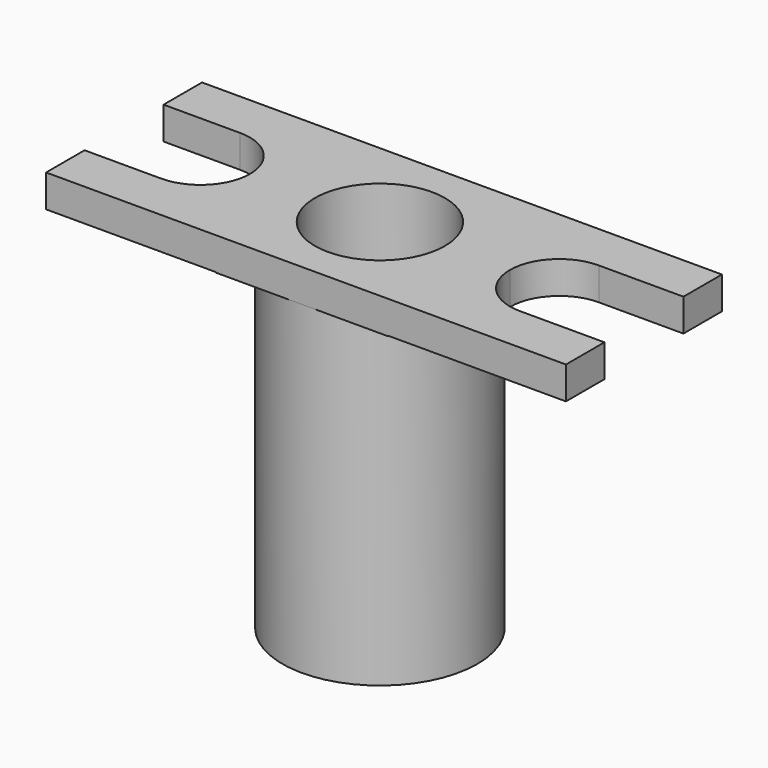
from build123d import *

# Parameters (mm, degrees)
F3_DEPTH      = 19.05
F3_DEPTH_BACK = 19.05
F4_R          = 12.7
F5_DEPTH      = 25.4
F8_DEPTH      = 69.851
F9_DEPTH      = 25.4


with BuildPart() as f1:
    # F0 (on Front) → F1 (revolve)
    with BuildSketch(Plane.XZ):
        Polygon((25.4, 0), (12.7, 0), (12.7, -63.5), (4.7625, -63.5), (4.7625, -69.85), (19.05, -69.85), (19.05, -6.444424), (25.4, -6.444424), align=None)
    revolve(axis=Axis((0, 0, -15.169185), (0, 0, 1)))


with BuildPart() as f3:
    # F2 (on Front) → F3 (new body, two sides)
    with BuildSketch(Plane.XZ) as f3_sk:
        Polygon((51.600001, 0), (0, 0), (-49.999999, 0), (-49.999999, -6.35), (0, -6.35), (51.600001, -6.35), align=None)
    extrude(amount=F3_DEPTH)
    extrude(f3_sk.sketch, amount=-F3_DEPTH_BACK)

    # F4 (on Top) → F5 (cut)
    with BuildSketch(Plane.XY):
        Circle(F4_R)
    extrude(amount=-F5_DEPTH, mode=Mode.SUBTRACT)

    # F6: union F1
    add(f1.part)

    # F7 (on Top) → F8 (cut, through all)
    with BuildSketch(Plane.XY):
        Polygon((0, -19.05), (-16.800521, -19.05), (-16.800521, -29.420776), (16.800521, -29.420776), (16.800521, -19.05), align=None)
        Polygon((-16.800521, 19.05), (0, 19.05), (16.800521, 19.05), (16.800521, 27.208871), (-16.800521, 27.208871), align=None)
    extrude(amount=-F8_DEPTH, mode=Mode.SUBTRACT)

    # F7 (on Top) → F9 (cut)
    with BuildSketch(Plane.XY):
        with BuildLine():
            Line((51.600001, -9.652), (51.600001, 9.652))
            Line((51.600001, 9.652), (35.052, 9.652))
            ThreePointArc((35.052, 9.652), (28.227005, 6.824995), (25.4, 0))
            ThreePointArc((25.4, 0), (28.227005, -6.824995), (35.052, -9.652))
            Line((35.052, -9.652), (51.600001, -9.652))
        make_face()
        with BuildLine():
            Line((-35.052, 9.652), (-49.999999, 9.652))
            Line((-49.999999, 9.652), (-49.999999, -9.652))
            Line((-49.999999, -9.652), (-35.052, -9.652))
            ThreePointArc((-35.052, -9.652), (-25.4, 0), (-35.052, 9.652))
        make_face()
    extrude(amount=-F9_DEPTH, mode=Mode.SUBTRACT)


solid = f3.part
